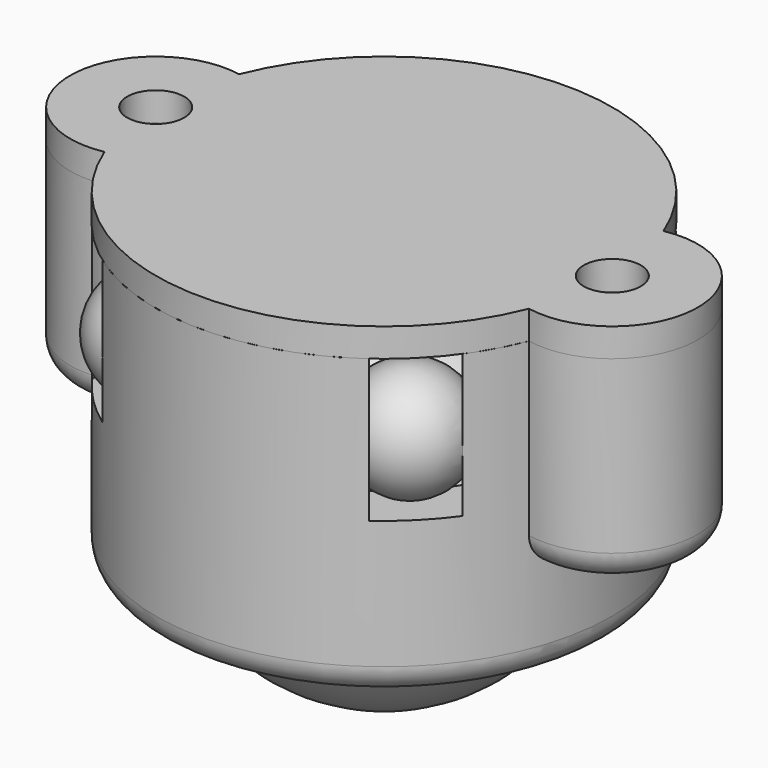
from build123d import *

# Parameters (mm, degrees)
SKETCH_R        = 8
PAD_DEPTH       = 10.5
SKETCH001_R     = 3
PAD001_DEPTH    = 7
SKETCH002_R     = 6.25
POCKET_DEPTH    = 10
SKETCH003_R     = 5.5
POCKET001_DEPTH = 10.501
SKETCH004_R     = 1
POCKET002_DEPTH = 5
SKETCH005_R     = 2
POCKET003_DEPTH = 5
FILLET_R        = 1
SKETCH013_R     = 8
PAD002_DEPTH    = 1
SKETCH012_R     = 3
PAD003_DEPTH    = 1
SKETCH011_R     = 1
POCKET007_DEPTH = 5


with BuildPart() as holder:
    # Sketch → Pad (new body)
    with BuildSketch(Plane.XY):
        Circle(SKETCH_R)
    extrude(amount=-PAD_DEPTH)

    # Sketch001 → Pad001 (join)
    with BuildSketch(Plane.XY):
        with Locations((-8, 0)):
            Circle(SKETCH001_R)
        with Locations((8, 0)):
            Circle(SKETCH001_R)
    extrude(amount=-PAD001_DEPTH)

    # Sketch002 → Pocket (cut)
    with BuildSketch(Plane.XY):
        Circle(SKETCH002_R)
    extrude(amount=-POCKET_DEPTH, mode=Mode.SUBTRACT)

    # Sketch003 → Pocket001 (cut, through all)
    with BuildSketch(Plane.XY):
        Circle(SKETCH003_R)
    extrude(amount=-POCKET001_DEPTH, mode=Mode.SUBTRACT)

    # Sketch004 → Pocket002 (cut)
    with BuildSketch(Plane.XY):
        with Locations((-8, 0)):
            Circle(SKETCH004_R)
        with Locations((8, 0)):
            Circle(SKETCH004_R)
    extrude(amount=-POCKET002_DEPTH, mode=Mode.SUBTRACT)

    # Sketch005 → Pocket003 (cut)
    with BuildSketch(Plane.XY):
        with Locations((-4.5, 4.5)):
            Circle(SKETCH005_R)
        with Locations((4.5, 4.5)):
            Circle(SKETCH005_R)
        with Locations((4.5, -4.5)):
            Circle(SKETCH005_R)
        with Locations((-4.5, -4.5)):
            Circle(SKETCH005_R)
    extrude(amount=-POCKET003_DEPTH, mode=Mode.SUBTRACT)

    # Fillet
    fillet_edges = [holder.edges().sort_by_distance(p)[0] for p in [
        (-8, 0, -10.5),
        (9.912132, -2.311655, -7),
        (9.912132, 2.311655, -7),
        (-11, 0, -7),
    ]]
    fillet(fillet_edges, radius=FILLET_R)


with BuildPart() as mainball:
    # Sketch006 → Revolution (revolve)
    with BuildSketch(Plane.XZ):
        with BuildLine():
            ThreePointArc((0, -6.25), (6.25, 0), (0, 6.25))
            Line((0, -6.25), (0, 6.25))
        make_face()
    revolve(axis=Axis((0, 0, 0), (0, 0, 1)))


with BuildPart() as mainball_1:
    # Body001 placement: moved
    add(mainball.part.moved(Location((0, 0, -8))))


with BuildPart() as smallball1:
    # Sketch007 → Revolution001 (revolve)
    with BuildSketch(Plane.XZ):
        with BuildLine():
            ThreePointArc((0, -2), (2, 0), (0, 2))
            Line((0, -2), (0, 2))
        make_face()
    revolve(axis=Axis((0, 0, 0), (0, 0, 1)))


with BuildPart() as smallball1_1:
    # Body002 placement: moved
    add(smallball1.part.moved(Location((4.5, 4.5, -3))))


with BuildPart() as smallball2:
    # Body003 base: copy of SmallBall1
    add(smallball1_1.part)


with BuildPart() as smallball2_1:
    # Body003 placement: moved
    add(smallball2.part.moved(Location((-9, 0, 0))))


with BuildPart() as smallball3:
    # Body004 base: copy of SmallBall1
    add(smallball1_1.part)


with BuildPart() as smallball3_1:
    # Body004 placement: moved
    add(smallball3.part.moved(Location((0, -9, 0))))


with BuildPart() as smallball4:
    # Body005 base: copy of SmallBall1
    add(smallball1_1.part)


with BuildPart() as smallball4_1:
    # Body005 placement: moved
    add(smallball4.part.moved(Location((-9, -9, 0))))


with BuildPart() as plate:
    # Sketch013 → Pad002 (new body)
    with BuildSketch(Plane.XY):
        Circle(SKETCH013_R)
    extrude(amount=-PAD002_DEPTH)

    # Sketch012 → Pad003 (join)
    with BuildSketch(Plane.XY):
        with Locations((-8, 0)):
            Circle(SKETCH012_R)
        with Locations((8, 0)):
            Circle(SKETCH012_R)
    extrude(amount=-PAD003_DEPTH)

    # Sketch011 → Pocket007 (cut)
    with BuildSketch(Plane.XY):
        with Locations((-8, 0)):
            Circle(SKETCH011_R)
        with Locations((8, 0)):
            Circle(SKETCH011_R)
    extrude(amount=-POCKET007_DEPTH, mode=Mode.SUBTRACT)


with BuildPart() as plate_1:
    # Body006 placement: moved
    add(plate.part.moved(Location((0, 0, 1))))


solid = Compound([holder.part, mainball_1.part, smallball2_1.part, smallball3_1.part, smallball4_1.part, plate_1.part])
